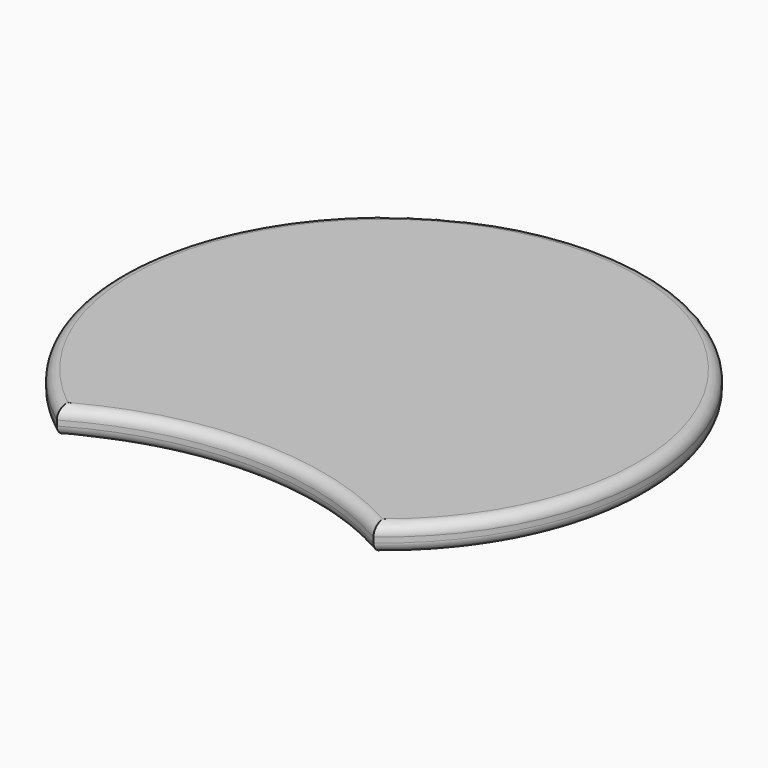
from build123d import *

# Parameters (mm, degrees)
F1_DEPTH = 5
F2_R     = 2


with BuildPart() as f1:
    # F0 (on Top) → F1 (new body)
    with BuildSketch(Plane.XY):
        with BuildLine():
            ThreePointArc((-30, -40), (0, -31.961524), (30, -40))
            ThreePointArc((30, -40), (0, 50), (-30, -40))
        make_face()
    extrude(amount=F1_DEPTH)

    # F2
    f2_edges = [f1.edges().sort_by_distance(p)[0] for p in [
        (0, -31.961524, 5),
        (0, 50, 5),
        (0, -31.961524, 0),
        (0, 50, 0),
    ]]
    fillet(f2_edges, radius=F2_R)


solid = f1.part
